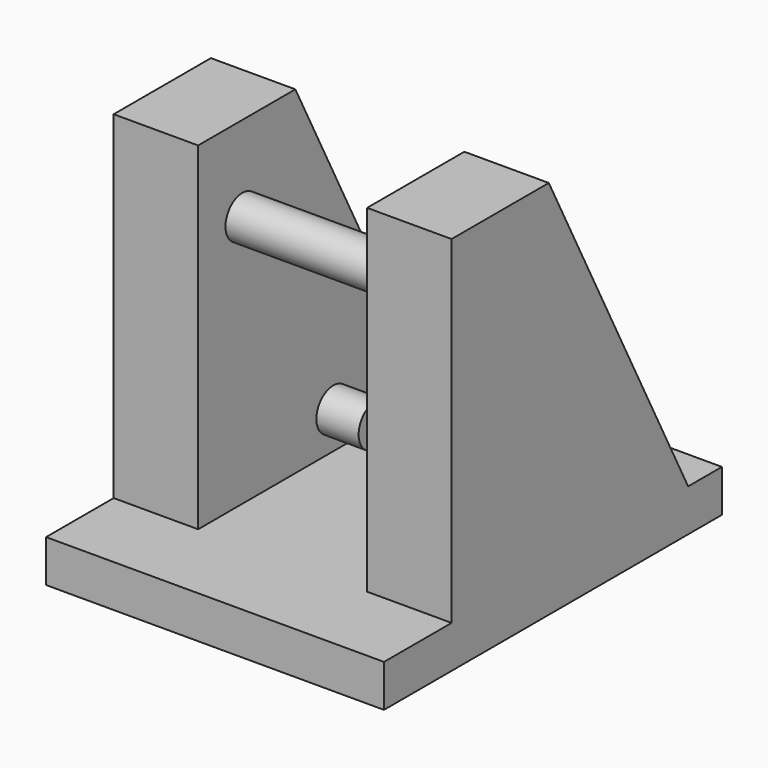
from build123d import *

# Parameters (mm, degrees)
F1_DEPTH = 50.8
F2_W     = 50.8
F2_H     = 101.6
F3_DEPTH = 101.603284
F4_R     = 6.35
F5_DEPTH = 25.4
F6_R     = 6.35
F7_DEPTH = 12.7
F8_R     = 6.35
F9_DEPTH = 12.7


with BuildPart() as f1:
    # F0 (on Right) → F1 (new body, symmetric)
    with BuildSketch(Plane.YZ):
        Polygon((11.138843, 63.5), (-25.4, 63.5), (-25.4, -38.1), (-50.797716, -38.1), (-50.797716, -50.8), (76.202284, -50.8), (76.202284, -38.1), (63.502284, -38.1), align=None)
    extrude(amount=F1_DEPTH, both=True)

    # F2 (on face) → F3 (cut, through all)
    with BuildSketch(Plane.XZ.offset(25.4)):
        with Locations((0, 12.7)):
            Rectangle(F2_W, F2_H)
    extrude(amount=-F3_DEPTH, mode=Mode.SUBTRACT)

    # F4 (on Right) → F5 (join, symmetric)
    with BuildSketch(Plane.YZ):
        with Locations((-8.776936, 37.846457)):
            Circle(F4_R)
    extrude(amount=F5_DEPTH, both=True)

    # F6 (on face) → F7 (join)
    with BuildSketch(Plane.YZ.offset(-25.4)):
        with Locations((25.389081, -27.005039)):
            Circle(F6_R)
    extrude(amount=F7_DEPTH)

    # F8 (on face) → F9 (join)
    with BuildSketch(Plane(origin=(25.4, 0, 0), x_dir=(0, -1, 0), z_dir=(-1, 0, 0))):
        with Locations((-25.4, -27.040878)):
            Circle(F8_R)
    extrude(amount=F9_DEPTH)


solid = f1.part
